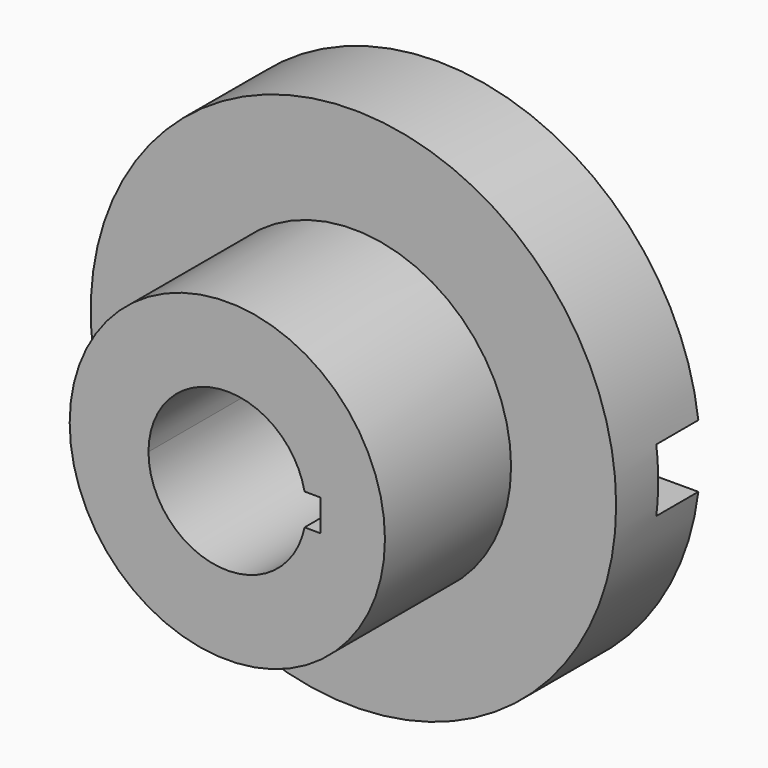
from build123d import *

# Parameters (mm, degrees)
F3_DEPTH = 50.001
F4_DEPTH = 30
F5_W     = 125.01227
F5_H     = 12
F6_DEPTH = 10


with BuildPart() as f1:
    # F0 (on Top) → F1 (revolve)
    with BuildSketch(Plane.XY):
        Polygon((0, 50), (0, 0), (30, 0), (30, 30), (50, 30), (50, 50), align=None)
    revolve(axis=Axis((0, 25, 0), (0, -1, 0)))

    # F2 (on face) → F3 (cut, through all)
    with BuildSketch(Plane.XZ):
        with BuildLine():
            Line((9.729625, 0), (15, 0))
            ThreePointArc((15, 0), (14.92405, 1.507558), (14.696969, 2.99985))
            Line((14.696969, 2.99985), (9.649316, 2.99985))
            Line((9.649316, 2.99985), (9.729625, 0))
        make_face()
        with BuildLine():
            ThreePointArc((-15, 0), (-1.507634, -14.924042), (14.696938, -3))
            Line((14.696938, -3), (9.809938, -3))
            Line((9.809938, -3), (9.729625, 0))
            Line((9.729625, 0), (-15, 0))
        make_face()
        with BuildLine():
            ThreePointArc((14.696938, -3), (14.924042, -1.507634), (15, 0))
            Line((15, 0), (9.729625, 0))
            Line((9.729625, 0), (9.809938, -3))
            Line((9.809938, -3), (14.696938, -3))
        make_face()
        with BuildLine():
            Line((9.649316, 2.99985), (14.696969, 2.99985))
            ThreePointArc((14.696969, 2.99985), (-1.507558, 14.92405), (-15, 0))
            Line((-15, 0), (9.729625, 0))
            Line((9.729625, 0), (9.649316, 2.99985))
        make_face()
    extrude(amount=-F3_DEPTH, mode=Mode.SUBTRACT)

    # F2 (on face) → F4 (cut)
    with BuildSketch(Plane.XZ):
        with BuildLine():
            Line((17.696969, 0), (15, 0))
            ThreePointArc((15, 0), (14.924042, -1.507634), (14.696938, -3))
            Line((14.696938, -3), (17.696969, -3))
            Line((17.696969, -3), (17.696969, 0))
        make_face()
        with BuildLine():
            ThreePointArc((14.696969, 2.99985), (14.92405, 1.507558), (15, 0))
            Line((15, 0), (17.696969, 0))
            Line((17.696969, 0), (17.696969, 2.99985))
            Line((17.696969, 2.99985), (14.696969, 2.99985))
        make_face()
        with BuildLine():
            Line((9.649316, 2.99985), (14.696969, 2.99985))
            ThreePointArc((14.696969, 2.99985), (-1.507558, 14.92405), (-15, 0))
            Line((-15, 0), (9.729625, 0))
            Line((9.729625, 0), (9.649316, 2.99985))
        make_face()
        with BuildLine():
            ThreePointArc((-15, 0), (-1.507634, -14.924042), (14.696938, -3))
            Line((14.696938, -3), (9.809938, -3))
            Line((9.809938, -3), (9.729625, 0))
            Line((9.729625, 0), (-15, 0))
        make_face()
    extrude(amount=-F4_DEPTH, mode=Mode.SUBTRACT)

    # F5 (on face) → F6 (cut)
    with BuildSketch(Plane(origin=(0, 50, 0), x_dir=(-1, 0, 0), z_dir=(0, 1, 0))):
        Rectangle(F5_W, F5_H)
    extrude(amount=-F6_DEPTH, mode=Mode.SUBTRACT)


solid = f1.part
